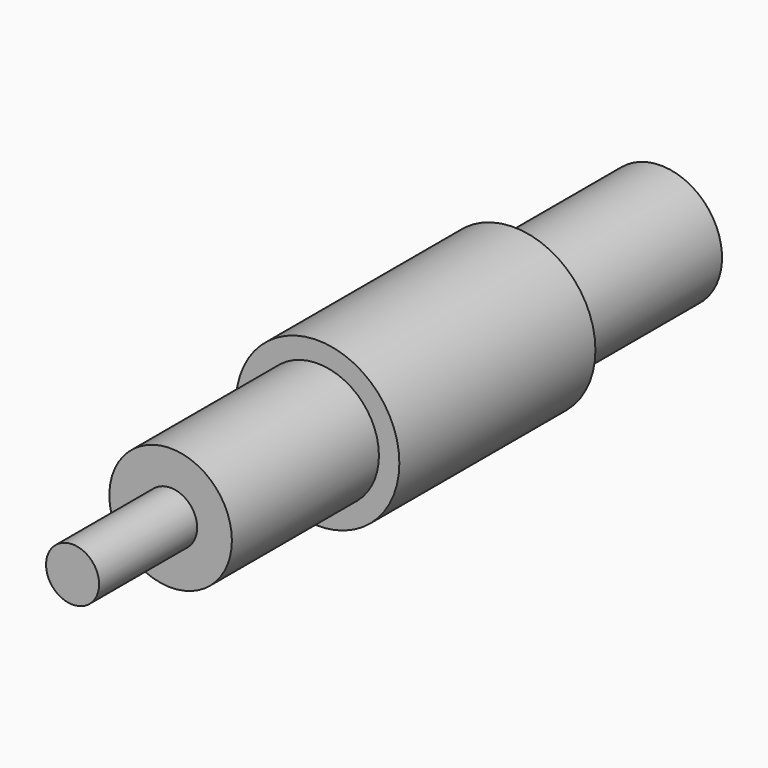
from build123d import *

# Parameters (mm, degrees)
F0_R     = 20
F1_DEPTH = 60
F3_R     = 15
F4_DEPTH = 45
F2_R     = 15
F5_DEPTH = 45
F6_R     = 6.5
F7_DEPTH = 30


with BuildPart() as f1:
    # F0 (on Front) → F1 (new body)
    with BuildSketch(Plane.XZ):
        Circle(F0_R)
    extrude(amount=F1_DEPTH)

    # F3 (on face) → F4 (join)
    with BuildSketch(Plane(origin=(0, 0, 0), x_dir=(-1, 0, 0), z_dir=(0, 1, 0))):
        Circle(F3_R)
    extrude(amount=F4_DEPTH)

    # F2 (on face) → F5 (join)
    with BuildSketch(Plane.XZ.offset(60)):
        Circle(F2_R)
    extrude(amount=F5_DEPTH)

    # F6 (on face) → F7 (join)
    with BuildSketch(Plane.XZ.offset(105)):
        Circle(F6_R)
    extrude(amount=F7_DEPTH)


solid = f1.part
